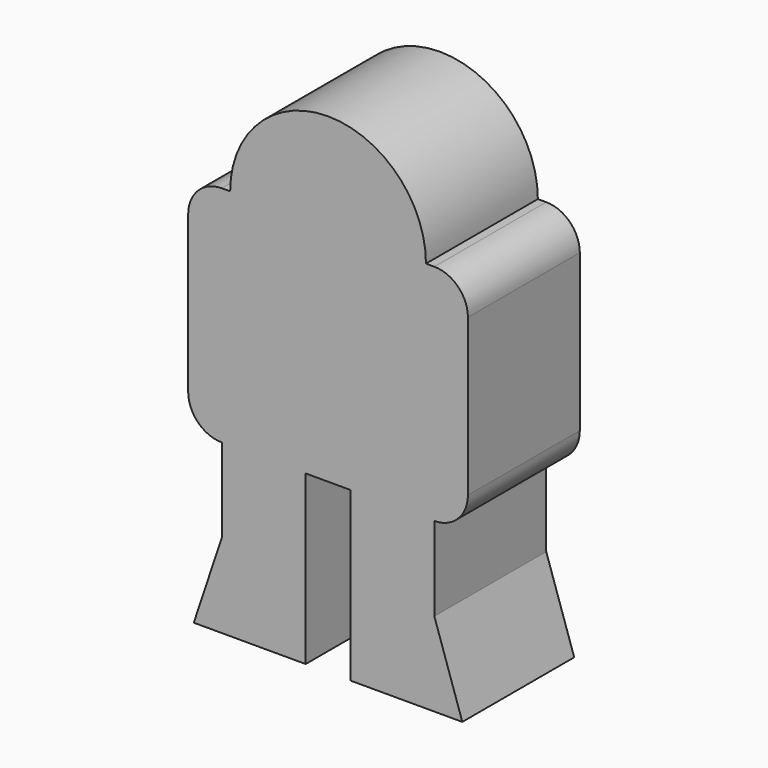
from build123d import *

# Parameters (mm, degrees)
F1_DEPTH = 25


with BuildPart() as f1:
    # F0 (on Front) → F1 (new body)
    with BuildSketch(Plane.XZ):
        with BuildLine():
            ThreePointArc((-25, -9), (-23.2426406871, -13.2426406871), (-19, -15))
            Line((-19, -15), (-4, -15))
            Line((-4, -15), (4, -15))
            Line((4, -15), (19, -15))
            ThreePointArc((19, -15), (23.2426406871, -13.2426406871), (25, -9))
            Line((25, -9), (25, 19))
            ThreePointArc((25, 19), (23.2426406871, 23.2426406871), (19, 25))
            Line((19, 25), (17.5, 25))
            ThreePointArc((17.5, 25), (0, 7.5), (-17.5, 25))
            Line((-17.5, 25), (-19, 25))
            ThreePointArc((-19, 25), (-23.2426406871, 23.2426406871), (-25, 19))
            Line((-25, 19), (-25, -9))
        make_face()
        Polygon((-4, -15), (-19, -15), (-19, -30), (-19, -45), (-4, -45), align=None)
        Polygon((-19, -45), (-19, -30), (-24, -45), align=None)
        Polygon((19, -15), (4, -15), (4, -45), (19, -45), (19, -30), align=None)
        Polygon((24, -45), (19, -30), (19, -45), align=None)
        with BuildLine():
            ThreePointArc((17.5, 25), (0, 42.5), (-17.5, 25))
            Line((-17.5, 25), (17.5, 25))
        make_face()
        with BuildLine():
            Line((17.5, 25), (-17.5, 25))
            ThreePointArc((-17.5, 25), (0, 7.5), (17.5, 25))
        make_face()
    extrude(amount=F1_DEPTH)


solid = f1.part
